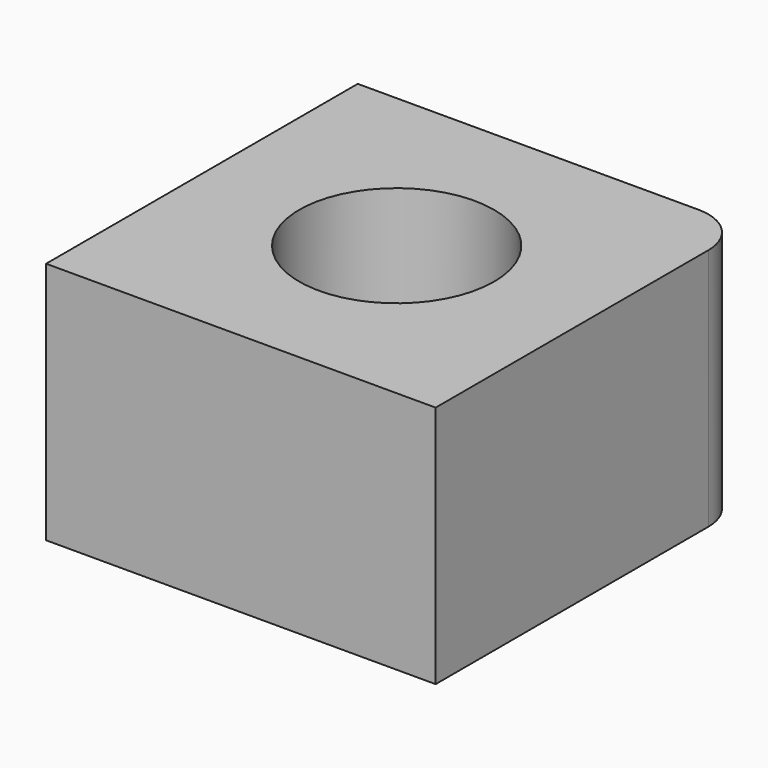
from build123d import *

# Parameters (mm, degrees)
F0_R     = 10
F1_DEPTH = 25


with BuildPart() as f1:
    # F0 (on Top) → F1 (new body)
    with BuildSketch(Plane.XY):
        with BuildLine():
            Line((0, 40), (0, 0))
            Line((0, 0), (40, 0))
            Line((40, 0), (40, 35))
            ThreePointArc((40, 35), (38.535534, 38.535534), (35, 40))
            Line((35, 40), (0, 40))
        make_face()
        with Locations((20, 20)):
            Circle(F0_R, mode=Mode.SUBTRACT)
    extrude(amount=F1_DEPTH)


solid = f1.part
